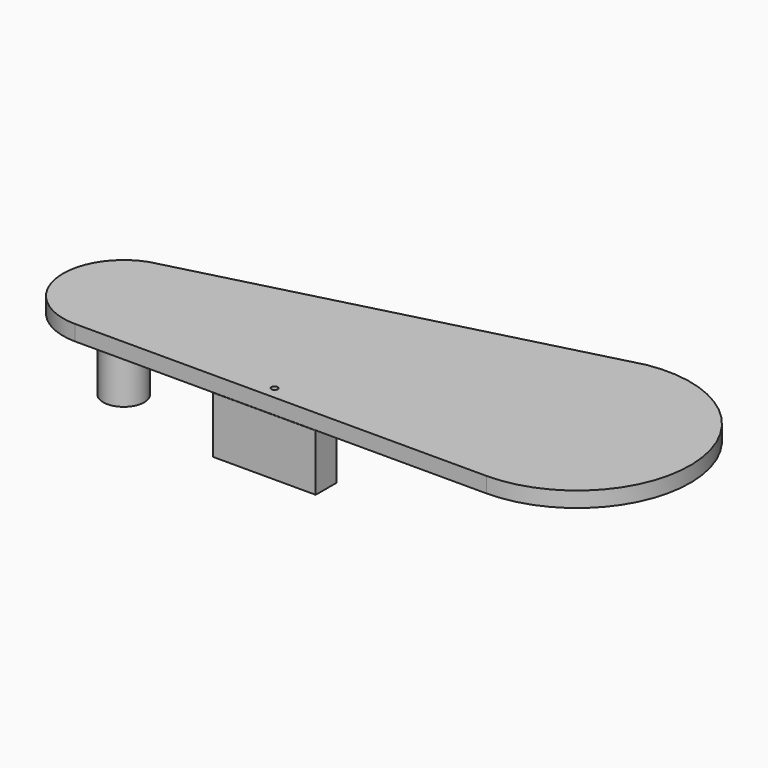
from build123d import *

# Parameters (mm, degrees)
CYLINDER011_R          = 0.6
CYLINDER011_DEPTH      = 20
BOX010_W               = 20
BOX010_H               = 5
BOX010_DEPTH           = 11
PAD001_DEPTH           = 3
SKETCH005_R            = 4
PAD002_DEPTH           = 8
SKETCH006_R            = 4
PAD003_DEPTH           = 14
BOX009_W               = 20
BOX009_H               = 5
BOX009_DEPTH           = 11
BOX009_PLACEMENT_ANGLE = 14


with BuildPart() as cylinder046:
    # Cylinder011 → Cylinder011 (new body)
    with BuildSketch(Plane(origin=(55, -9.5, -5), x_dir=(1, 0, 0), z_dir=(0, 0, 1))):
        Circle(CYLINDER011_R)
    extrude(amount=CYLINDER011_DEPTH)


with BuildPart() as cube010:
    # Box010 → Box010 (new body)
    with BuildSketch(Plane(origin=(45, -12, -0.5), x_dir=(1, 0, 0), z_dir=(0, 0, 1))):
        with Locations((10, 2.5)):
            Rectangle(BOX010_W, BOX010_H)
    extrude(amount=BOX010_DEPTH)


with BuildPart() as pad003:
    # Sketch004 → Pad001 (new body)
    with BuildSketch(Plane.XY.offset(10.5)):
        with BuildLine():
            ThreePointArc((14.120466, 10.991566), (6.522754, -2.168145), (18.163211, -11.935589))
            Line((18.163211, -11.935589), (98.163211, -11.935589))
            ThreePointArc((98.163211, -11.935589), (120.099455, 12.003546), (94.339546, 31.769884))
            Line((14.120466, 10.991566), (94.339546, 31.769884))
        make_face()
    extrude(amount=PAD001_DEPTH)

    # Sketch005 → Pad002 (new body)
    with BuildSketch(Plane(origin=(0, 0, 10.5), x_dir=(1, 0, 0), z_dir=(0, 0, -1))):
        with Locations((98.0594, -10.0638)):
            Circle(SKETCH005_R)
    extrude(amount=PAD002_DEPTH)

    # Sketch006 → Pad003 (new body)
    with BuildSketch(Plane(origin=(0, 0, 10.5), x_dir=(1, 0, 0), z_dir=(0, 0, -1))):
        with Locations((18.0594, 0)):
            Circle(SKETCH006_R)
    extrude(amount=PAD003_DEPTH)


with BuildPart() as cut010:
    # Box009 → Box009 (new body)
    with BuildSketch(Plane.XY):
        with Locations((10, 2.5)):
            Rectangle(BOX009_W, BOX009_H)
    extrude(amount=BOX009_DEPTH)


with BuildPart() as cut010_1:
    # Box009 placement: moved
    add(cut010.part.moved(Location((45, 14, -0.5))).rotate(Axis((45, 14, -0.5), (0, 0, 1)), BOX009_PLACEMENT_ANGLE))

    # Fusion005: union Cube010, Pad003
    add(cube010.part)
    add(pad003.part)

    # Cut010: cut Cylinder046
    add(cylinder046.part, mode=Mode.SUBTRACT)


solid = cut010_1.part
